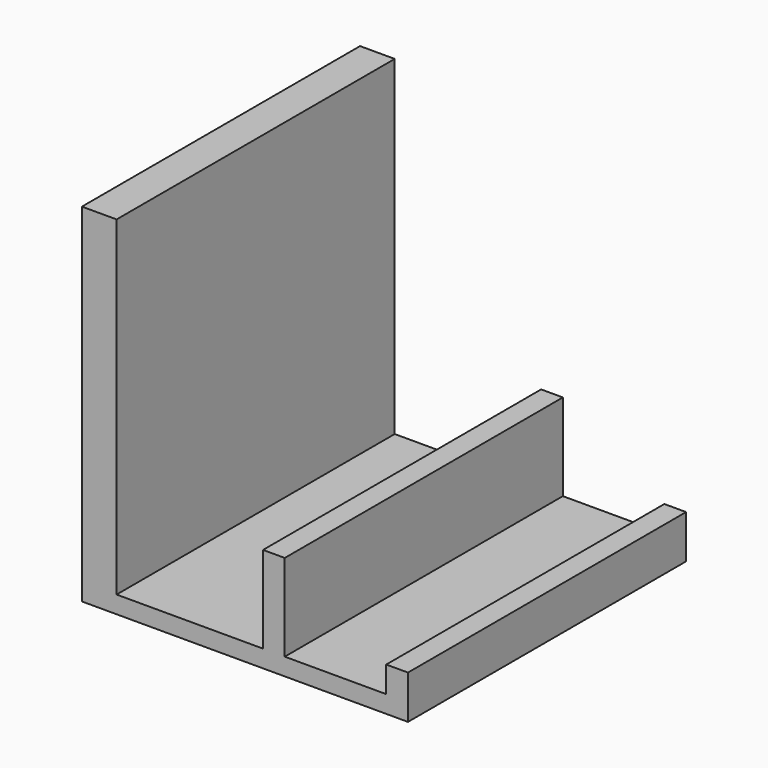
from build123d import *

# Parameters (mm, degrees)
F0_W     = 6.35
F0_H     = 25.4
F1_DEPTH = 101.6


with BuildPart() as f1:
    # F0 (on Front) → F1 (new body)
    with BuildSketch(Plane.XZ):
        Polygon((-47.463744, 53.743327), (-57.600139, 53.743327), (-57.600139, -47.856673), (37.691497, -47.856673), (37.691497, -35.156673), (31.341497, -35.156673), (31.341497, -42.776673), (1.678121, -42.776673), (-4.671879, -42.776673), (-47.463744, -42.776673), align=None)
        with Locations((-1.496879, -30.076673)):
            Rectangle(F0_W, F0_H)
    extrude(amount=-F1_DEPTH)


solid = f1.part
